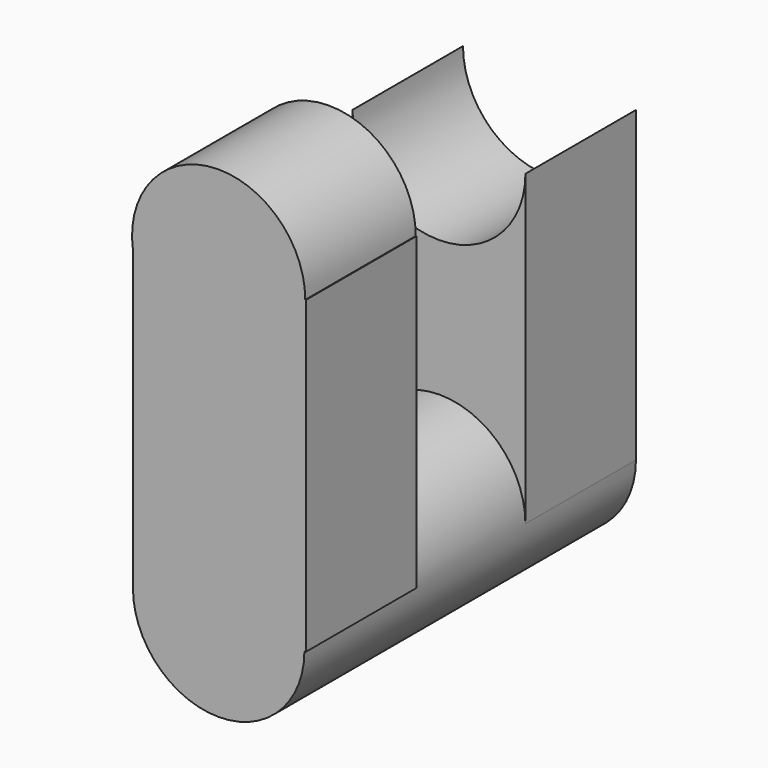
from build123d import *

# Parameters (mm, degrees)
F0_R     = 15.7634364534
F1_DEPTH = 38.1
F2_DEPTH = 38.1
F6_DEPTH = 25.4
F7_DEPTH = 25.4
F8_DEPTH = 25.4


with BuildPart() as f1:
    # F0 (on Front) → F1 (new body)
    with BuildSketch(Plane.XZ):
        Circle(F0_R)
    extrude(amount=F1_DEPTH)

    # F2 (add): a face of the model
    f2_faces = [f1.faces().sort_by_distance(p)[0] for p in [
        (0, 0, 0),
    ]]
    extrude(f2_faces, amount=F2_DEPTH)

    # F5 (on face) → F6 (join)
    with BuildSketch(Plane(origin=(0, 38.1, 0), x_dir=(-1, 0, 0), z_dir=(0, 1, 0))):
        with BuildLine():
            Line((-15.7634364534, 56.6483028233), (-15.7634364534, 0))
            ThreePointArc((-15.7634364534, 0), (0, 15.7634364534), (15.7634364534, 0))
            Line((15.7634364534, 0), (16.0325393081, 0))
            Line((16.0325393081, 0), (16.0325393081, 56.6483028233))
            ThreePointArc((16.0325393081, 56.6483028233), (0.1345514273, 40.7503149426), (-15.7634364534, 56.6483028233))
        make_face()
    extrude(amount=-F6_DEPTH)

    # F3 (on face) → F7 (join)
    with BuildSketch(Plane.XZ.offset(38.1)):
        with BuildLine():
            Line((-15.7634364534, 56.9536834955), (-15.7634364534, 0))
            ThreePointArc((-15.7634364534, 0), (0, 15.7634364534), (15.7634364534, 0))
            Line((15.7634364534, 0), (16.0325393081, 0))
            Line((16.0325393081, 0), (16.0325393081, 56.9536834955))
            Line((16.0325393081, 56.9536834955), (-15.7634364534, 56.9536834955))
        make_face()
    extrude(amount=-F7_DEPTH)

    # F4 (on face) → F8 (join)
    with BuildSketch(Plane.XZ.offset(38.1)):
        with BuildLine():
            Line((-15.7634364534, 56.9536834955), (15.9245655957, 56.9536834955))
            ThreePointArc((15.9245655957, 56.9536834955), (-1.132676387, 72.837915728), (-15.7634364534, 54.6940683534))
            Line((-15.7634364534, 54.6940683534), (-15.7634364534, 56.9536834955))
        make_face()
    extrude(amount=-F8_DEPTH)


solid = f1.part
